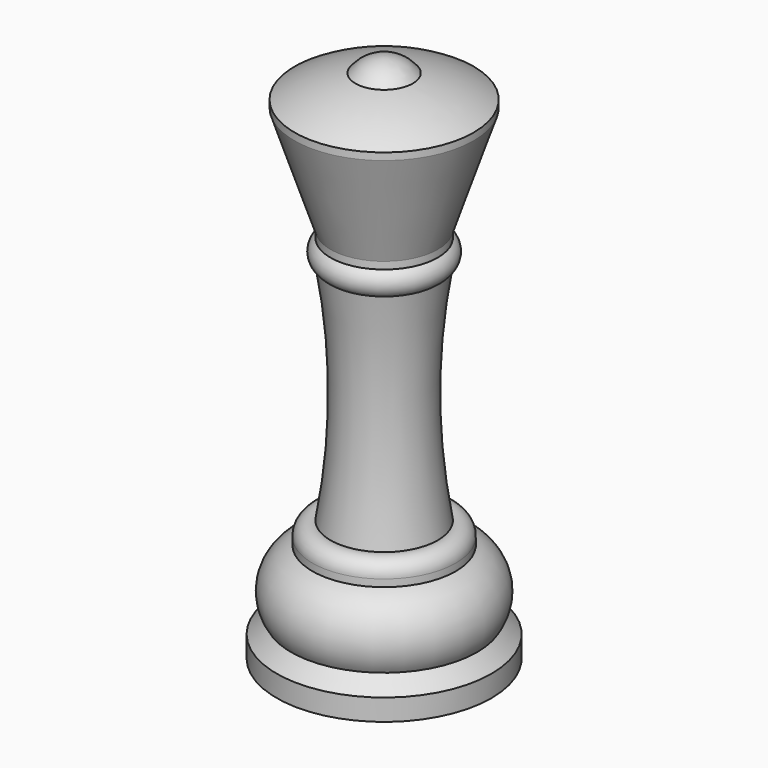
from build123d import *


with BuildPart() as f1:
    # F0 (on Front) → F1 (revolve)
    with BuildSketch(Plane.XZ):
        with BuildLine():
            ThreePointArc((12.5, -5.27), (8.40016, -3.244675), (4, -2))
            ThreePointArc((4, -2), (2.236068, -0.527864), (0, 0))
            Line((0, 0), (0, -73.978072))
            Line((0, -73.978072), (15, -73.978072))
            Line((15, -73.978072), (15, -70.978072))
            Line((15, -70.978072), (13, -68.978072))
            ThreePointArc((13, -68.978072), (13.692064, -63.763974), (10.009813, -60.008072))
            Line((10.009813, -60.008072), (10.009813, -59.008072))
            ThreePointArc((10.009813, -59.008072), (9.257319, -57.377591), (7.5, -57.008072))
            ThreePointArc((7.5, -57.008072), (6.11843, -41.299036), (7.5, -25.59))
            ThreePointArc((7.5, -25.59), (8.384473, -23.93), (7.5, -22.27))
            Line((7.5, -22.27), (7.5, -21.27))
            Line((7.5, -21.27), (12.5, -6.27))
            Line((12.5, -6.27), (12.5, -5.27))
        make_face()
    revolve(axis=Axis((0, 0, -36.989036), (0, 0, 1)))


solid = f1.part
